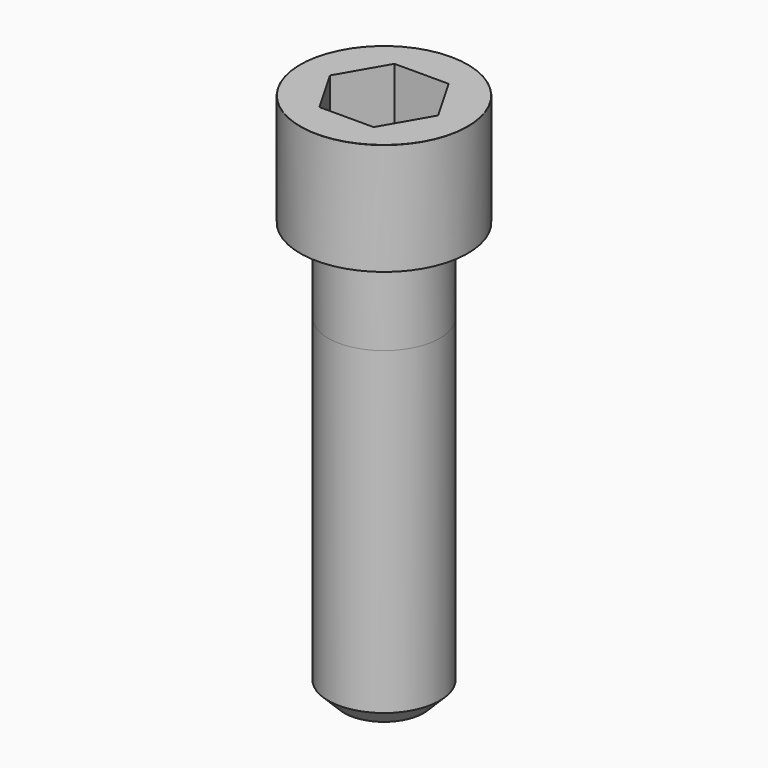
from build123d import *

# Parameters (mm, degrees)
POCKET_DEPTH = 10.07


with BuildPart() as part:
    # Sketch → Revolve (revolve)
    with BuildSketch(Plane.YZ):
        with BuildLine():
            Line((5.999, 0), (9, 0))
            Line((9, 0), (9, 11.97229))
            ThreePointArc((9, 11.97229), (8.991884, 11.991884), (8.97229, 12))
            Line((8.97229, 12), (0, 12))
            Line((0, -45), (0, 12))
            Line((4.25, -45), (0, -45))
            Line((6, -43.25), (4.25, -45))
            Line((6, -9), (6, -43.25))
            Line((5.999, 0), (6, -9))
        make_face()
    revolve(axis=Axis((0, 0, 0), (0, 0, 1)))

    # Sketch001 → Pocket (cut)
    with BuildSketch(Plane.XY.offset(12)):
        Polygon((5.813917, 0), (2.906959, 5.035), (-2.906959, 5.035), (-5.813917, 0), (-2.906959, -5.035), (2.906959, -5.035), align=None)
    extrude(amount=-POCKET_DEPTH, mode=Mode.SUBTRACT)


solid = part.part
